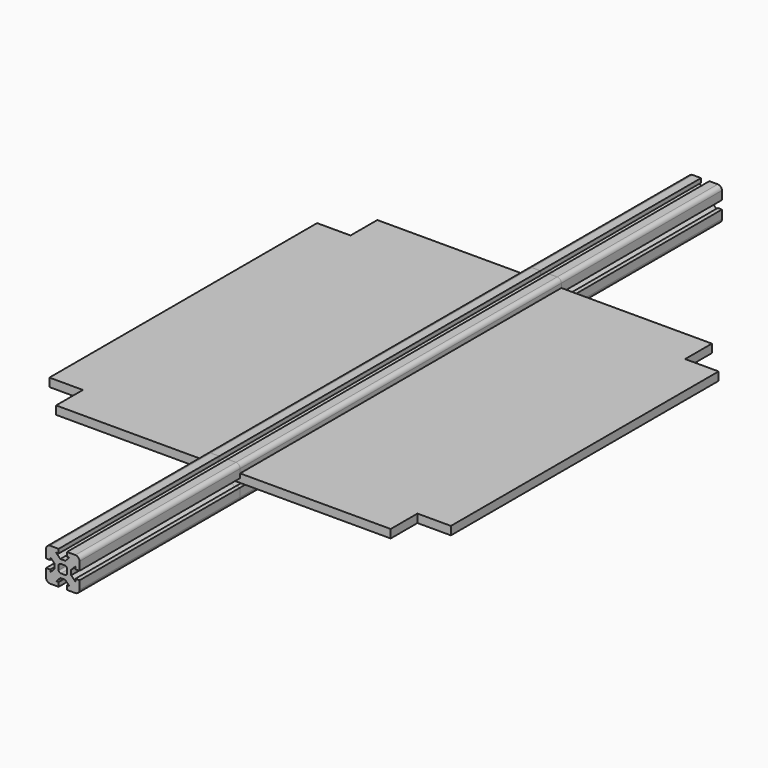
from build123d import *

# Parameters (mm, degrees)
F2_DEPTH = 127
F4_DEPTH = 304.8
F6_DEPTH = 152.4
F8_DEPTH = 6.35


with BuildPart() as f2:
    # F0 (on Front) → F2 (new body, symmetric)
    with BuildSketch(Plane.XZ):
        with BuildLine():
            ThreePointArc((12.7, 9.525), (11.7700640303, 11.7700640303), (9.525, 12.7))
            Line((9.525, 12.7), (3.175, 12.7))
            Line((3.175, 12.7), (3.175, 9.525))
            Line((3.175, 9.525), (5.0348719395, 9.525))
            Line((5.0348719395, 9.525), (1.8598719395, 6.35))
            Line((1.8598719395, 6.35), (0, 6.35))
            Line((0, 6.35), (-1.8598719395, 6.35))
            Line((-1.8598719395, 6.35), (-5.0348719395, 9.525))
            Line((-5.0348719395, 9.525), (-3.175, 9.525))
            Line((-3.175, 9.525), (-3.175, 12.7))
            Line((-3.175, 12.7), (-9.525, 12.7))
            ThreePointArc((-9.525, 12.7), (-11.7700640303, 11.7700640303), (-12.7, 9.525))
            Line((-12.7, 9.525), (-12.7, 3.175))
            Line((-12.7, 3.175), (-9.525, 3.175))
            Line((-9.525, 3.175), (-9.525, 5.0348719395))
            Line((-9.525, 5.0348719395), (-6.35, 1.8598719395))
            Line((-6.35, 1.8598719395), (-6.35, 0))
            Line((-6.35, 0), (-6.35, -1.8598719395))
            Line((-6.35, -1.8598719395), (-9.525, -5.0348719395))
            Line((-9.525, -5.0348719395), (-9.525, -3.175))
            Line((-9.525, -3.175), (-12.7, -3.175))
            Line((-12.7, -3.175), (-12.7, -9.525))
            ThreePointArc((-12.7, -9.525), (-11.7700640303, -11.7700640303), (-9.525, -12.7))
            Line((-9.525, -12.7), (-3.175, -12.7))
            Line((-3.175, -12.7), (-3.175, -9.525))
            Line((-3.175, -9.525), (-5.0348719395, -9.525))
            Line((-5.0348719395, -9.525), (-1.8598719395, -6.35))
            Line((-1.8598719395, -6.35), (0, -6.35))
            Line((0, -6.35), (1.8598719395, -6.35))
            Line((1.8598719395, -6.35), (5.0348719395, -9.525))
            Line((5.0348719395, -9.525), (3.175, -9.525))
            Line((3.175, -9.525), (3.175, -12.7))
            Line((3.175, -12.7), (9.525, -12.7))
            ThreePointArc((9.525, -12.7), (11.7700640303, -11.7700640303), (12.7, -9.525))
            Line((12.7, -9.525), (12.7, -3.175))
            Line((12.7, -3.175), (9.525, -3.175))
            Line((9.525, -3.175), (9.525, -5.0348719395))
            Line((9.525, -5.0348719395), (6.35, -1.8598719395))
            Line((6.35, -1.8598719395), (6.35, 0))
            Line((6.35, 0), (6.35, 1.8598719395))
            Line((6.35, 1.8598719395), (9.525, 5.0348719395))
            Line((9.525, 5.0348719395), (9.525, 3.175))
            Line((9.525, 3.175), (12.7, 3.175))
            Line((12.7, 3.175), (12.7, 9.525))
        make_face()
        with BuildLine():
            Line((-1.5875, 3.175), (0, 3.175))
            Line((0, 3.175), (1.5875, 3.175))
            ThreePointArc((1.5875, 3.175), (2.7100320151, 2.7100320151), (3.175, 1.5875))
            Line((3.175, 1.5875), (3.175, 0))
            Line((3.175, 0), (3.175, -1.5875))
            ThreePointArc((3.175, -1.5875), (2.7100320151, -2.7100320151), (1.5875, -3.175))
            Line((1.5875, -3.175), (0, -3.175))
            Line((0, -3.175), (-1.5875, -3.175))
            ThreePointArc((-1.5875, -3.175), (-2.7100320151, -2.7100320151), (-3.175, -1.5875))
            Line((-3.175, -1.5875), (-3.175, 0))
            Line((-3.175, 0), (-3.175, 1.5875))
            ThreePointArc((-3.175, 1.5875), (-2.7100320151, 2.7100320151), (-1.5875, 3.175))
        make_face(mode=Mode.SUBTRACT)
    extrude(amount=F2_DEPTH, both=True)


with BuildPart() as f4:
    # F0 (on Front) → F4 (new body, symmetric)
    with BuildSketch(Plane.XZ):
        with BuildLine():
            ThreePointArc((12.7, 9.525), (11.7700640303, 11.7700640303), (9.525, 12.7))
            Line((9.525, 12.7), (3.175, 12.7))
            Line((3.175, 12.7), (3.175, 9.525))
            Line((3.175, 9.525), (5.0348719395, 9.525))
            Line((5.0348719395, 9.525), (1.8598719395, 6.35))
            Line((1.8598719395, 6.35), (0, 6.35))
            Line((0, 6.35), (-1.8598719395, 6.35))
            Line((-1.8598719395, 6.35), (-5.0348719395, 9.525))
            Line((-5.0348719395, 9.525), (-3.175, 9.525))
            Line((-3.175, 9.525), (-3.175, 12.7))
            Line((-3.175, 12.7), (-9.525, 12.7))
            ThreePointArc((-9.525, 12.7), (-11.7700640303, 11.7700640303), (-12.7, 9.525))
            Line((-12.7, 9.525), (-12.7, 3.175))
            Line((-12.7, 3.175), (-9.525, 3.175))
            Line((-9.525, 3.175), (-9.525, 5.0348719395))
            Line((-9.525, 5.0348719395), (-6.35, 1.8598719395))
            Line((-6.35, 1.8598719395), (-6.35, 0))
            Line((-6.35, 0), (-6.35, -1.8598719395))
            Line((-6.35, -1.8598719395), (-9.525, -5.0348719395))
            Line((-9.525, -5.0348719395), (-9.525, -3.175))
            Line((-9.525, -3.175), (-12.7, -3.175))
            Line((-12.7, -3.175), (-12.7, -9.525))
            ThreePointArc((-12.7, -9.525), (-11.7700640303, -11.7700640303), (-9.525, -12.7))
            Line((-9.525, -12.7), (-3.175, -12.7))
            Line((-3.175, -12.7), (-3.175, -9.525))
            Line((-3.175, -9.525), (-5.0348719395, -9.525))
            Line((-5.0348719395, -9.525), (-1.8598719395, -6.35))
            Line((-1.8598719395, -6.35), (0, -6.35))
            Line((0, -6.35), (1.8598719395, -6.35))
            Line((1.8598719395, -6.35), (5.0348719395, -9.525))
            Line((5.0348719395, -9.525), (3.175, -9.525))
            Line((3.175, -9.525), (3.175, -12.7))
            Line((3.175, -12.7), (9.525, -12.7))
            ThreePointArc((9.525, -12.7), (11.7700640303, -11.7700640303), (12.7, -9.525))
            Line((12.7, -9.525), (12.7, -3.175))
            Line((12.7, -3.175), (9.525, -3.175))
            Line((9.525, -3.175), (9.525, -5.0348719395))
            Line((9.525, -5.0348719395), (6.35, -1.8598719395))
            Line((6.35, -1.8598719395), (6.35, 0))
            Line((6.35, 0), (6.35, 1.8598719395))
            Line((6.35, 1.8598719395), (9.525, 5.0348719395))
            Line((9.525, 5.0348719395), (9.525, 3.175))
            Line((9.525, 3.175), (12.7, 3.175))
            Line((12.7, 3.175), (12.7, 9.525))
        make_face()
        with BuildLine():
            Line((-1.5875, 3.175), (0, 3.175))
            Line((0, 3.175), (1.5875, 3.175))
            ThreePointArc((1.5875, 3.175), (2.7100320151, 2.7100320151), (3.175, 1.5875))
            Line((3.175, 1.5875), (3.175, 0))
            Line((3.175, 0), (3.175, -1.5875))
            ThreePointArc((3.175, -1.5875), (2.7100320151, -2.7100320151), (1.5875, -3.175))
            Line((1.5875, -3.175), (0, -3.175))
            Line((0, -3.175), (-1.5875, -3.175))
            ThreePointArc((-1.5875, -3.175), (-2.7100320151, -2.7100320151), (-3.175, -1.5875))
            Line((-3.175, -1.5875), (-3.175, 0))
            Line((-3.175, 0), (-3.175, 1.5875))
            ThreePointArc((-3.175, 1.5875), (-2.7100320151, 2.7100320151), (-1.5875, 3.175))
        make_face(mode=Mode.SUBTRACT)
    extrude(amount=F4_DEPTH, both=True)


with BuildPart() as f6:
    # F0 (on Front) → F6 (new body, symmetric)
    with BuildSketch(Plane.XZ):
        with BuildLine():
            ThreePointArc((12.7, 9.525), (11.7700640303, 11.7700640303), (9.525, 12.7))
            Line((9.525, 12.7), (3.175, 12.7))
            Line((3.175, 12.7), (3.175, 9.525))
            Line((3.175, 9.525), (5.0348719395, 9.525))
            Line((5.0348719395, 9.525), (1.8598719395, 6.35))
            Line((1.8598719395, 6.35), (0, 6.35))
            Line((0, 6.35), (-1.8598719395, 6.35))
            Line((-1.8598719395, 6.35), (-5.0348719395, 9.525))
            Line((-5.0348719395, 9.525), (-3.175, 9.525))
            Line((-3.175, 9.525), (-3.175, 12.7))
            Line((-3.175, 12.7), (-9.525, 12.7))
            ThreePointArc((-9.525, 12.7), (-11.7700640303, 11.7700640303), (-12.7, 9.525))
            Line((-12.7, 9.525), (-12.7, 3.175))
            Line((-12.7, 3.175), (-9.525, 3.175))
            Line((-9.525, 3.175), (-9.525, 5.0348719395))
            Line((-9.525, 5.0348719395), (-6.35, 1.8598719395))
            Line((-6.35, 1.8598719395), (-6.35, 0))
            Line((-6.35, 0), (-6.35, -1.8598719395))
            Line((-6.35, -1.8598719395), (-9.525, -5.0348719395))
            Line((-9.525, -5.0348719395), (-9.525, -3.175))
            Line((-9.525, -3.175), (-12.7, -3.175))
            Line((-12.7, -3.175), (-12.7, -9.525))
            ThreePointArc((-12.7, -9.525), (-11.7700640303, -11.7700640303), (-9.525, -12.7))
            Line((-9.525, -12.7), (-3.175, -12.7))
            Line((-3.175, -12.7), (-3.175, -9.525))
            Line((-3.175, -9.525), (-5.0348719395, -9.525))
            Line((-5.0348719395, -9.525), (-1.8598719395, -6.35))
            Line((-1.8598719395, -6.35), (0, -6.35))
            Line((0, -6.35), (1.8598719395, -6.35))
            Line((1.8598719395, -6.35), (5.0348719395, -9.525))
            Line((5.0348719395, -9.525), (3.175, -9.525))
            Line((3.175, -9.525), (3.175, -12.7))
            Line((3.175, -12.7), (9.525, -12.7))
            ThreePointArc((9.525, -12.7), (11.7700640303, -11.7700640303), (12.7, -9.525))
            Line((12.7, -9.525), (12.7, -3.175))
            Line((12.7, -3.175), (9.525, -3.175))
            Line((9.525, -3.175), (9.525, -5.0348719395))
            Line((9.525, -5.0348719395), (6.35, -1.8598719395))
            Line((6.35, -1.8598719395), (6.35, 0))
            Line((6.35, 0), (6.35, 1.8598719395))
            Line((6.35, 1.8598719395), (9.525, 5.0348719395))
            Line((9.525, 5.0348719395), (9.525, 3.175))
            Line((9.525, 3.175), (12.7, 3.175))
            Line((12.7, 3.175), (12.7, 9.525))
        make_face()
        with BuildLine():
            Line((-1.5875, 3.175), (0, 3.175))
            Line((0, 3.175), (1.5875, 3.175))
            ThreePointArc((1.5875, 3.175), (2.7100320151, 2.7100320151), (3.175, 1.5875))
            Line((3.175, 1.5875), (3.175, 0))
            Line((3.175, 0), (3.175, -1.5875))
            ThreePointArc((3.175, -1.5875), (2.7100320151, -2.7100320151), (1.5875, -3.175))
            Line((1.5875, -3.175), (0, -3.175))
            Line((0, -3.175), (-1.5875, -3.175))
            ThreePointArc((-1.5875, -3.175), (-2.7100320151, -2.7100320151), (-3.175, -1.5875))
            Line((-3.175, -1.5875), (-3.175, 0))
            Line((-3.175, 0), (-3.175, 1.5875))
            ThreePointArc((-3.175, 1.5875), (-2.7100320151, 2.7100320151), (-1.5875, 3.175))
        make_face(mode=Mode.SUBTRACT)
    extrude(amount=F6_DEPTH, both=True)


with BuildPart() as f8:
    # F7 (on Top) → F8 (new body)
    with BuildSketch(Plane.XY):
        Polygon((127, 127), (127, 152.4), (-127, 152.4), (-127, 127), (-152.4, 127), (-152.4, -127), (-127, -127), (-127, -152.4), (127, -152.4), (127, -127), (152.4, -127), (152.4, 127), align=None)
    extrude(amount=F8_DEPTH)


solid = Compound([f2.part, f4.part, f6.part, f8.part])
